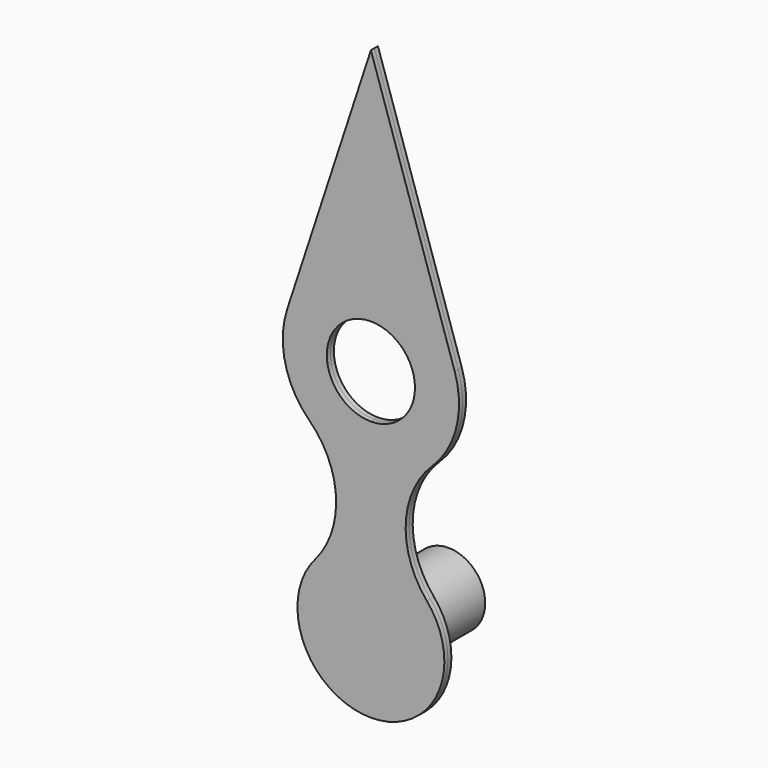
from build123d import *

# Parameters (mm, degrees)
F1_DEPTH = 0.381
F2_R     = 3.175
F3_DEPTH = 7.62
F4_R     = 1.5875
F5_DEPTH = 7.62


with BuildPart() as f1:
    # F0 (on Front) → F1 (new body, symmetric)
    with BuildSketch(Plane.XZ):
        with BuildLine():
            Line((0, 22.5393476782), (0, 0))
            ThreePointArc((0, 0), (5.7666386867, 3.691357817), (4.8287964934, 10.4737391315))
            ThreePointArc((4.8287964934, 10.4737391315), (3.0115337416, 15.7752394789), (5.3116761428, 20.8857868838))
            ThreePointArc((5.3116761428, 20.8857868838), (7.399265484, 24.5285593059), (7.2405055752, 28.7241064059))
            Line((7.2405055752, 28.7241064059), (0, 50.8))
            Line((0, 50.8), (0, 30.1593476782))
            ThreePointArc((0, 30.1593476782), (2.6940768363, 29.0434245145), (3.81, 26.3493476782))
            ThreePointArc((3.81, 26.3493476782), (2.6940768363, 23.6552708418), (0, 22.5393476782))
        make_face()
        with BuildLine():
            ThreePointArc((-4.8287964934, 10.4737391315), (-5.7666386867, 3.691357817), (0, 0))
            Line((0, 0), (0, 22.5393476782))
            ThreePointArc((0, 22.5393476782), (-3.81, 26.3493476782), (0, 30.1593476782))
            Line((0, 30.1593476782), (0, 50.8))
            Line((0, 50.8), (-7.2405055752, 28.7241064059))
            ThreePointArc((-7.2405055752, 28.7241064059), (-7.399265484, 24.5285593059), (-5.3116761428, 20.8857868838))
            ThreePointArc((-5.3116761428, 20.8857868838), (-3.0115337416, 15.7752394789), (-4.8287964934, 10.4737391315))
        make_face()
    extrude(amount=F1_DEPTH, both=True)

    # F2 (on face) → F3 (join)
    with BuildSketch(Plane(origin=(0, 0.381, 0), x_dir=(-1, 0, 0), z_dir=(0, 1, 0))):
        with Locations((0, 6.35)):
            Circle(F2_R)
    extrude(amount=F3_DEPTH)

    # F4 (on face) → F5 (cut)
    with BuildSketch(Plane(origin=(0, 8.001, 0), x_dir=(-1, 0, 0), z_dir=(0, 1, 0))):
        with Locations((0, 6.35)):
            Circle(F4_R)
    extrude(amount=-F5_DEPTH, mode=Mode.SUBTRACT)


solid = f1.part
